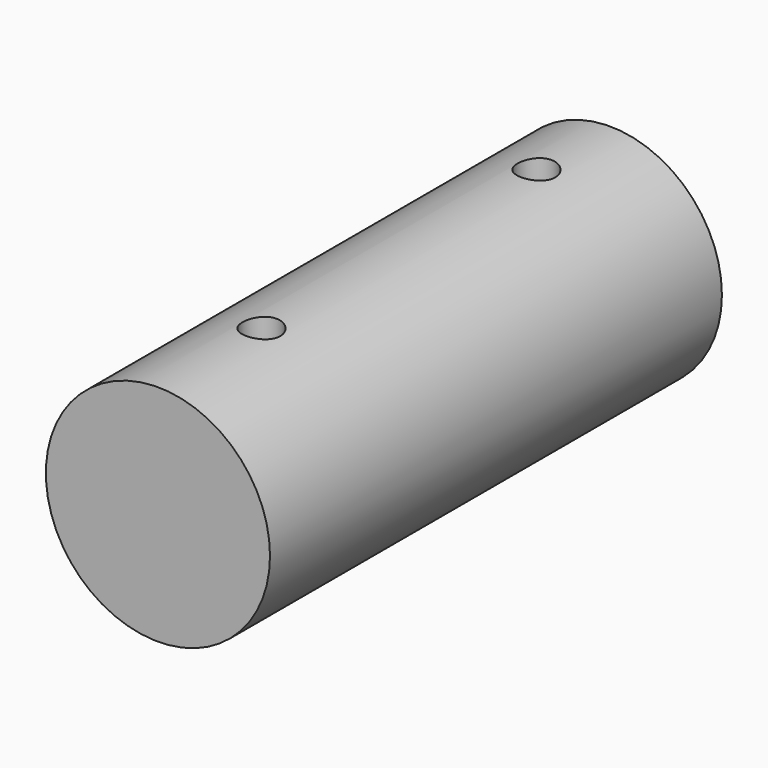
from build123d import *

# Parameters (mm, degrees)
F0_R     = 7.558236
F1_DEPTH = 38.1
F2_R     = 1.27
F3_DEPTH = 12.7


with BuildPart() as f1:
    # F0 (on Front) → F1 (new body)
    with BuildSketch(Plane.XZ):
        Circle(F0_R)
        Circle(F0_R)
    extrude(amount=F1_DEPTH)

    # F2 (on Top) → F3 (cut, symmetric)
    with BuildSketch(Plane.XY):
        with Locations((0, -29.37583)):
            Circle(F2_R)
        with Locations((0, -6.193065)):
            Circle(F2_R)
    extrude(amount=F3_DEPTH, both=True, mode=Mode.SUBTRACT)


solid = f1.part
